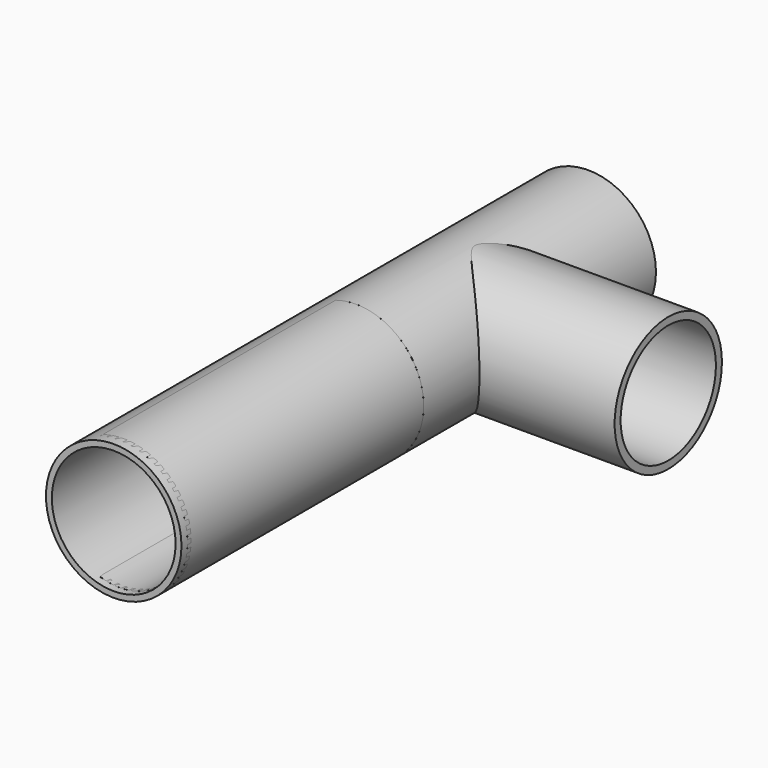
from build123d import *

# Parameters (mm, degrees)
F0_R     = 25.7075351744
F0_R_2   = 23.4747624904
F1_DEPTH = 114
F2_R     = 25.4343017655
F2_R_2   = 22.5914551843
F3_DEPTH = 77
F4_DEPTH = 111
F5_W     = 45.2958606184
F5_H     = 110.2872118354
F6_DEPTH = 50
F7_DEPTH = 112


with BuildPart() as f1:
    # F0 (on Front) → F1 (new body)
    with BuildSketch(Plane.XZ):
        Circle(F0_R)
        Circle(F0_R_2, mode=Mode.SUBTRACT)
    extrude(amount=F1_DEPTH)

    # F2 (on Right) → F3 (join)
    with BuildSketch(Plane.YZ):
        with Locations((-58.2775846124, 0)):
            Circle(F2_R)
        with Locations((-58.2775846124, 0)):
            Circle(F2_R_2, mode=Mode.SUBTRACT)
    extrude(amount=F3_DEPTH)

    # F4 (add): a face of the model
    f4_faces = [f1.faces().sort_by_distance(p)[0] for p in [
        (-24.9804162765, -114, 0),
    ]]
    extrude(f4_faces, amount=F4_DEPTH)

    # F5 (on Top) → F6 (cut, symmetric)
    with BuildSketch(Plane.XY):
        with Locations((14.944491908, -165.2734465897)):
            Rectangle(F5_W, F5_H)
    extrude(amount=F6_DEPTH, both=True, mode=Mode.SUBTRACT)


with BuildPart() as f7:
    # F7 (new): a face of the model
    f7_faces = [f1.part.faces().sort_by_distance(p)[0] for p in [
        (14.8496639637, -110.129840672, -20.2290515983),
    ]]
    extrude(f7_faces, amount=F7_DEPTH)


solid = Compound([f1.part, f7.part])
